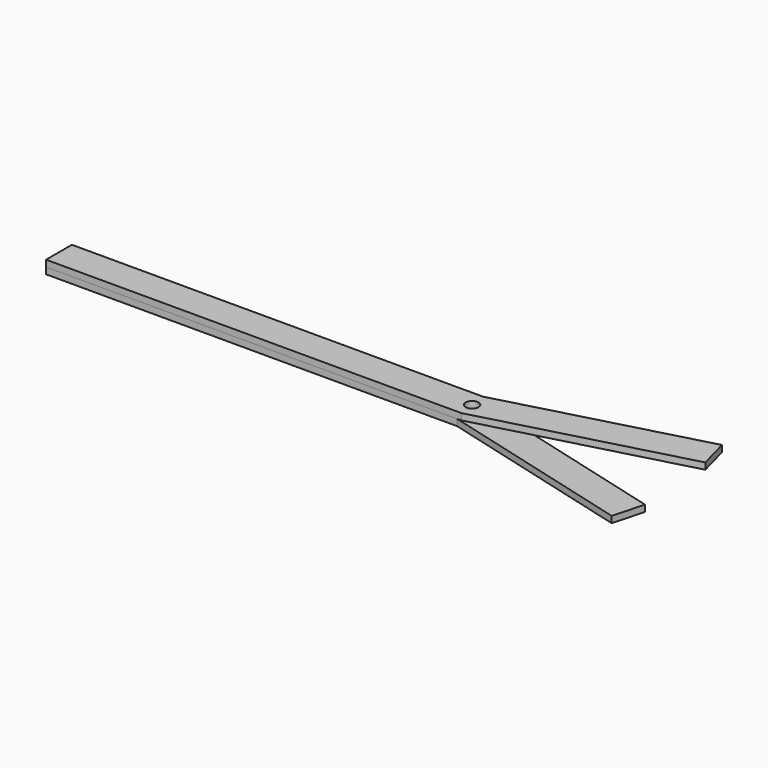
from build123d import *

# Parameters (mm, degrees)
F0_R     = 3.175
F1_DEPTH = 3.175
F2_DEPTH = 3.175


with BuildPart() as f1:
    # F0 (on Top) → F1 (new body)
    with BuildSketch(Plane.XY):
        Polygon((-203.2, 7.9375), (-203.2, -7.9375), (-1.0449916996, -7.9375), (1.0449916996, -7.9375), (30.6681449847, 0), (1.0449916996, 7.9375), (-1.0449916996, 7.9375), align=None)
        Circle(F0_R, mode=Mode.SUBTRACT)
        Polygon((95.7837357862, 33.8826793339), (-1.0449916996, 7.9375), (1.0449916996, 7.9375), (30.6681449847, 0), (99.8924881272, 18.5486068416), align=None)
    extrude(amount=F1_DEPTH)


with BuildPart() as f2:
    # F0 (on Top) → F2 (new body)
    with BuildSketch(Plane.XY):
        Polygon((1.0449916996, -7.9375), (-1.0449916996, -7.9375), (95.7837357862, -33.8826793339), (99.8924881272, -18.5486068416), (30.6681449847, 0), align=None)
        Polygon((-203.2, 7.9375), (-203.2, -7.9375), (-1.0449916996, -7.9375), (1.0449916996, -7.9375), (30.6681449847, 0), (1.0449916996, 7.9375), (-1.0449916996, 7.9375), align=None)
        Circle(F0_R, mode=Mode.SUBTRACT)
    extrude(amount=-F2_DEPTH)


solid = Compound([f1.part, f2.part])
